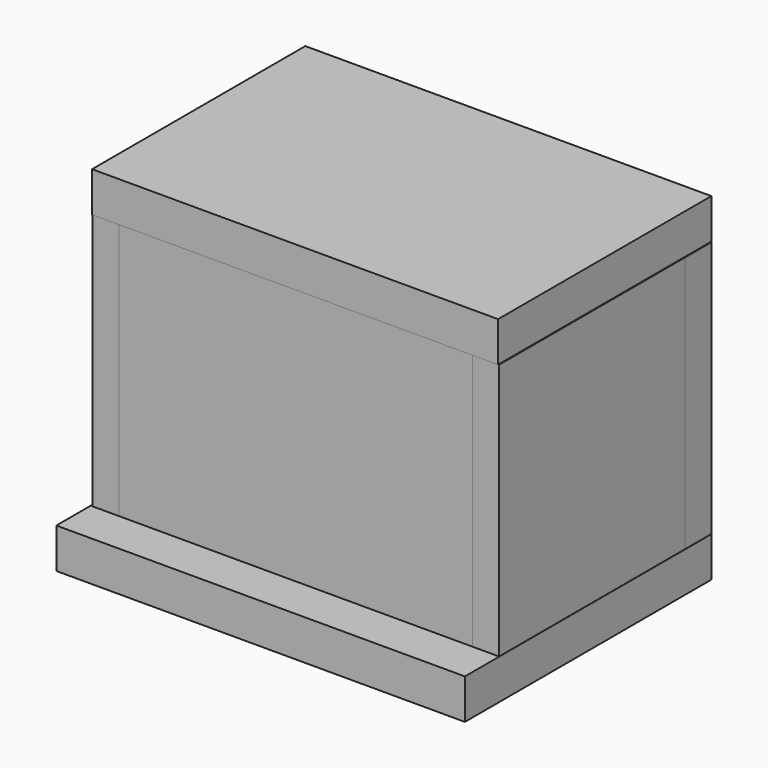
from build123d import *

# Parameters (mm, degrees)
F0_W      = 134.42462
F0_H      = 97.692314
F1_DEPTH  = 12.7
F2_W      = 88.411541
F2_H      = 97.692314
F3_DEPTH  = 10.16
F4_W      = 88.606925
F4_H      = 97.692314
F5_DEPTH  = 10.16
F6_W      = 79.228462
F6_H      = 97.692314
F7_DEPTH  = 12.7
F8_W      = 75.516158
F8_H      = 97.692314
F9_DEPTH  = 12.7
F10_W     = 154.468515
F10_H     = 101.419647
F11_DEPTH = 15.24
F13_W     = 155.432985
F13_H     = 117.166555
F14_DEPTH = 15.24
F15_R     = 6.190849
F16_DEPTH = 5.08
F17_W     = 5.108219
F17_H     = 5.255047
F18_DEPTH = 5.08


with BuildPart() as f1:
    # F0 (on Front) → F1 (new body)
    with BuildSketch(Plane.XZ):
        with Locations((1.856152, -0.586154)):
            Rectangle(F0_W, F0_H)
    extrude(amount=F1_DEPTH)


with BuildPart() as f3:
    # F2 (on face) → F3 (new body)
    with BuildSketch(Plane.YZ.offset(69.068462)):
        with Locations((31.50577, -0.586154)):
            Rectangle(F2_W, F2_H)
    extrude(amount=F3_DEPTH)


with BuildPart() as f5:
    # F4 (on face) → F5 (new body)
    with BuildSketch(Plane(origin=(-65.356158, 0, 0), x_dir=(0, -1, 0), z_dir=(-1, 0, 0))):
        with Locations((-31.603462, -0.586154)):
            Rectangle(F4_W, F4_H)
    extrude(amount=F5_DEPTH)


with BuildPart() as f7:
    # F6 (on face) → F7 (new body)
    with BuildSketch(Plane(origin=(0, 75.711541, 0), x_dir=(-1, 0, 0), z_dir=(0, 1, 0))):
        with Locations((-39.614231, -0.586154)):
            Rectangle(F6_W, F6_H)
    extrude(amount=F7_DEPTH)


with BuildPart() as f9:
    # F8 (on face) → F9 (new body)
    with BuildSketch(Plane(origin=(0, 75.906925, 0), x_dir=(-1, 0, 0), z_dir=(0, 1, 0))):
        with Locations((37.758079, -0.586154)):
            Rectangle(F8_W, F8_H)
    extrude(amount=F9_DEPTH)


with BuildPart() as f11:
    # F10 (on face) → F11 (new body)
    with BuildSketch(Plane.XY.offset(48.260003)):
        with Locations((1.7181, 37.897101)):
            Rectangle(F10_W, F10_H)
    extrude(amount=F11_DEPTH)


with BuildPart() as f14:
    # F13 (on face) → F14 (new body)
    with BuildSketch(Plane(origin=(0, 0, -49.432311), x_dir=(1, 0, 0), z_dir=(0, 0, -1))):
        with Locations((1.606234, -29.537548)):
            Rectangle(F13_W, F13_H)
    extrude(amount=F14_DEPTH)


with BuildPart() as f16:
    # F15 (on face) → F16 (new body)
    with BuildSketch(Plane(origin=(0, 88.606925, 0), x_dir=(-1, 0, 0), z_dir=(0, 1, 0))):
        with Locations((7.265798, 7.053389)):
            Circle(F15_R)
    extrude(amount=F16_DEPTH)


with BuildPart() as f18:
    # F17 (on face) → F18 (new body)
    with BuildSketch(Plane(origin=(0, 93.686925, 0), x_dir=(-1, 0, 0), z_dir=(0, 1, 0))):
        with Locations((7.365423, 7.150276)):
            Rectangle(F17_W, F17_H)
    extrude(amount=F18_DEPTH)


solid = Compound([f1.part, f3.part, f5.part, f7.part, f9.part, f11.part, f14.part, f16.part, f18.part])
